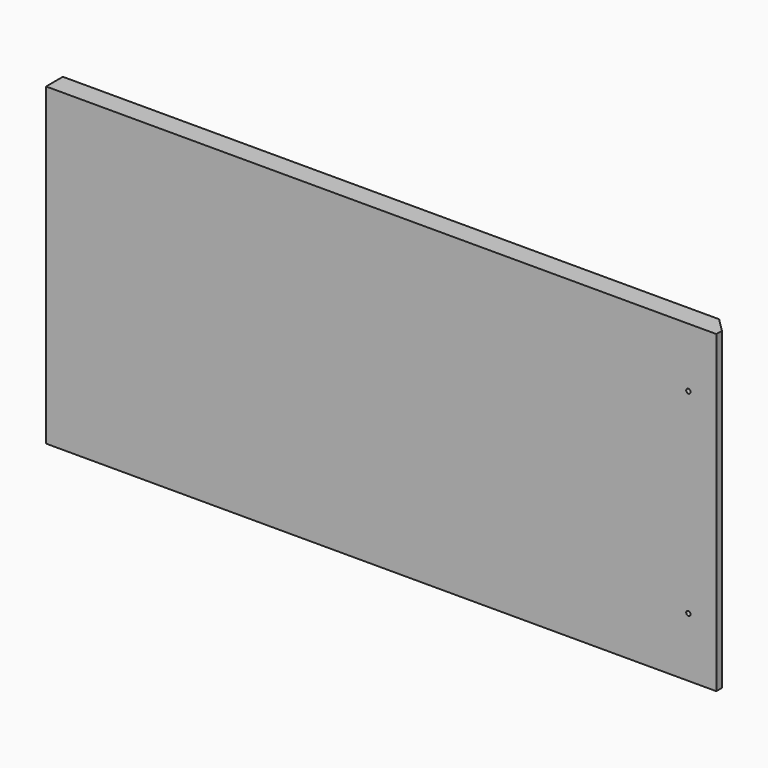
from build123d import *

# Parameters (mm, degrees)
F1_DEPTH = 38.1
F3_D     = 6.35
F3_DEPTH = 1.524
F3_TIP   = 1.9077324654
F4_SIZE2 = 25.4
F4_SIZE  = 25.4
F6_DEPTH = 12.7
F7_R     = 3.9751
F8_DEPTH = 12.7


with BuildPart() as f1:
    # F0 (on Front) → F1 (new body)
    with BuildSketch(Plane.XZ):
        Polygon((0, -6.35), (0, -571.5), (1218.2094, -571.5), (1218.2094, -6.35), (1218.2094, 0), (0, 0), align=None)
    extrude(amount=F1_DEPTH)

    # F3
    with Locations(Plane(origin=(0, 0, 0), x_dir=(0, -1, 0), z_dir=(-1, 0, 0))):
        with Locations((19.05, -552.45), (19.05, -590.55)):
            Hole(F3_D / 2, depth=F3_DEPTH)
            with Locations((0, 0, -(F3_DEPTH + F3_TIP / 2))):  # 118° drill point
                Cone(0, F3_D / 2, F3_TIP, mode=Mode.SUBTRACT)

    # F4
    f4_edges = [f1.edges().sort_by_distance(p)[0] for p in [
        (1218.2094, 0, -285.75),
    ]]
    chamfer(f4_edges, length=F4_SIZE, length2=F4_SIZE2)

    # F5 (on face) → F6 (cut)
    with BuildSketch(Plane(origin=(596.4047, 596.4047, 0), x_dir=(-0.7071067812, 0.7071067812, 0), z_dir=(0.7071067812, 0.7071067812, 0))):
        with BuildLine():
            ThreePointArc((-864.5791276452, -561.975), (-863.6491916755, -564.2200640303), (-861.4041276452, -565.15))
            Line((-861.4041276452, -565.15), (-861.4041276452, -561.975))
            Line((-861.4041276452, -561.975), (-864.5791276452, -561.975))
        make_face()
        with BuildLine():
            ThreePointArc((-861.4041276452, -6.35), (-864.5791276452, -9.525), (-861.4041276452, -12.7))
            Line((-861.4041276452, -12.7), (-861.4041276452, -6.35))
        make_face()
        with BuildLine():
            Line((-861.4041276452, -6.35), (-861.4041276452, -12.7))
            ThreePointArc((-861.4041276452, -12.7), (-859.1590636149, -11.7700640303), (-858.2291276452, -9.525))
            ThreePointArc((-858.2291276452, -9.525), (-859.1590636149, -7.2799359697), (-861.4041276452, -6.35))
        make_face()
        with BuildLine():
            ThreePointArc((-861.4041276452, -69.85), (-864.5791276452, -73.025), (-861.4041276452, -76.2))
            Line((-861.4041276452, -76.2), (-861.4041276452, -69.85))
        make_face()
        with BuildLine():
            Line((-861.4041276452, -69.85), (-861.4041276452, -76.2))
            ThreePointArc((-861.4041276452, -76.2), (-859.1590636149, -75.2700640303), (-858.2291276452, -73.025))
            ThreePointArc((-858.2291276452, -73.025), (-859.1590636149, -70.7799359697), (-861.4041276452, -69.85))
        make_face()
        with BuildLine():
            ThreePointArc((-861.4041276452, -495.3), (-864.5791276452, -498.475), (-861.4041276452, -501.65))
            Line((-861.4041276452, -501.65), (-861.4041276452, -498.475))
            Line((-861.4041276452, -498.475), (-861.4041276452, -495.3))
        make_face()
        with BuildLine():
            Line((-861.4041276452, -498.475), (-861.4041276452, -501.65))
            ThreePointArc((-861.4041276452, -501.65), (-859.1590636149, -500.7200640303), (-858.2291276452, -498.475))
            ThreePointArc((-858.2291276452, -498.475), (-859.1590636149, -496.2299359697), (-861.4041276452, -495.3))
            Line((-861.4041276452, -495.3), (-861.4041276452, -498.475))
        make_face()
        with BuildLine():
            Line((-861.4041276452, -561.975), (-861.4041276452, -565.15))
            ThreePointArc((-861.4041276452, -565.15), (-859.1590636149, -564.2200640303), (-858.2291276452, -561.975))
            ThreePointArc((-858.2291276452, -561.975), (-859.1590636149, -559.7299359697), (-861.4041276452, -558.8))
            Line((-861.4041276452, -558.8), (-861.4041276452, -561.975))
        make_face()
        with BuildLine():
            Line((-864.5791276452, -561.975), (-861.4041276452, -561.975))
            Line((-861.4041276452, -561.975), (-861.4041276452, -558.8))
            ThreePointArc((-861.4041276452, -558.8), (-863.6491916755, -559.7299359697), (-864.5791276452, -561.975))
        make_face()
    extrude(amount=-F6_DEPTH, mode=Mode.SUBTRACT)

    # F7 (on face) → F8 (cut)
    with BuildSketch(Plane.XZ.offset(38.1)):
        with BuildLine():
            ThreePointArc((1167.4094, -103.9749), (1164.5985798341, -110.7608201659), (1171.3845, -107.95))
            ThreePointArc((1171.3845, -107.95), (1170.2202201659, -105.1391798341), (1167.4094, -103.9749))
        make_face()
        with Locations((1167.4094, -463.55)):
            Circle(F7_R)
    extrude(amount=-F8_DEPTH, mode=Mode.SUBTRACT)


solid = f1.part
